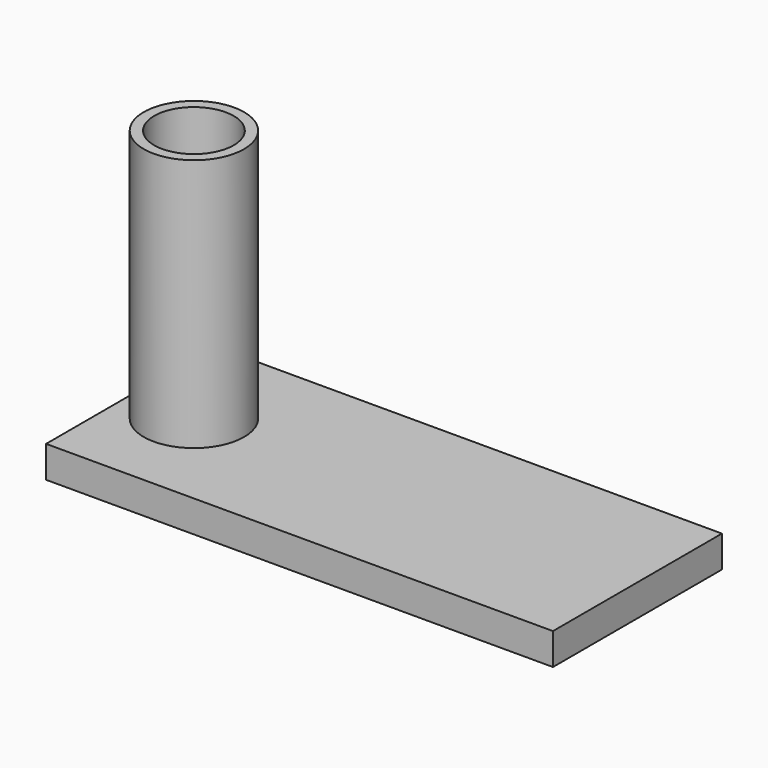
from build123d import *

# Parameters (mm, degrees)
F0_W     = 304.8
F0_H     = 127
F1_DEPTH = 19.05
F2_R     = 30.1625
F2_R_2   = 23.914231
F3_DEPTH = 152.4


with BuildPart() as f1:
    # F0 (on Top) → F1 (new body)
    with BuildSketch(Plane.XY):
        Rectangle(F0_W, F0_H)
    extrude(amount=F1_DEPTH)

    # F2 (on face) → F3 (join)
    with BuildSketch(Plane.XY.offset(19.05)):
        with Locations((-114.3, 0)):
            Circle(F2_R)
        with Locations((-114.3, 0)):
            Circle(F2_R_2, mode=Mode.SUBTRACT)
    extrude(amount=F3_DEPTH)


solid = f1.part
